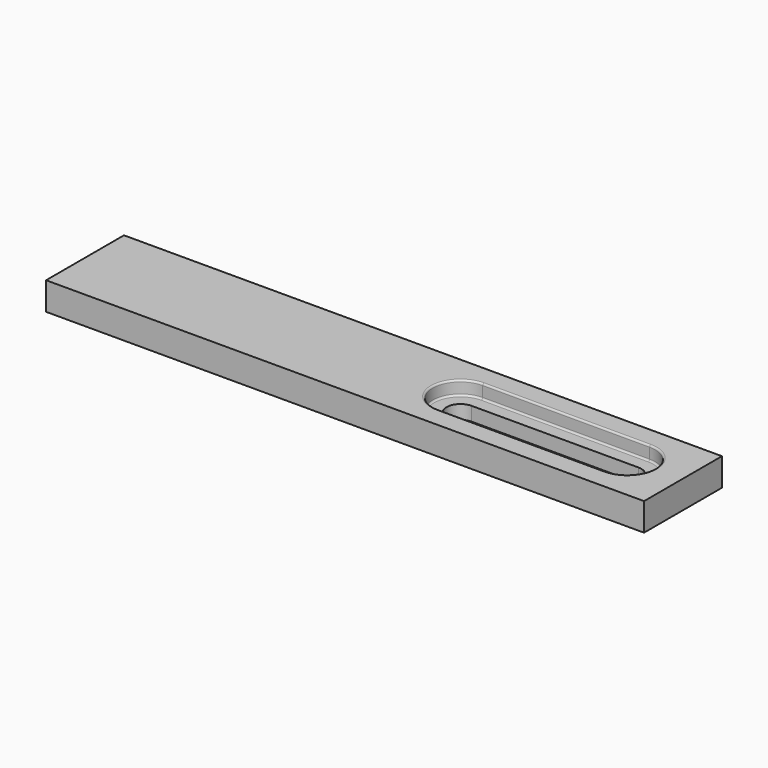
from build123d import *

# Parameters (mm, degrees)
F0_W     = 86
F0_H     = 14
F1_DEPTH = 4
F3_DEPTH = 4
F5_DEPTH = 2
F6_R     = 0.25


with BuildPart() as f1:
    # F0 (on Top) → F1 (new body)
    with BuildSketch(Plane.XY):
        Rectangle(F0_W, F0_H)
    extrude(amount=F1_DEPTH)

    # F2 (on face) → F3 (cut)
    with BuildSketch(Plane.XY.offset(4)):
        with BuildLine():
            ThreePointArc((35, -2), (36.4142139414, -1.4142137697), (37.0000005863, 0))
            ThreePointArc((37.0000005863, 0), (36.4142139414, 1.4142137697), (35, 2))
            Line((35, 2), (35, -2))
        make_face()
        with BuildLine():
            Line((35, -2), (35, 2))
            ThreePointArc((35, 2), (33.0000005863, 0), (35, -2))
        make_face()
        with BuildLine():
            ThreePointArc((35, -2), (33.0000005863, 0), (35, 2))
            Line((35, 2), (11, 2))
            ThreePointArc((11, 2), (12.4142135624, 1.4142135624), (13, 0))
            ThreePointArc((13, 0), (12.4142135624, -1.4142135624), (11, -2))
            Line((11, -2), (35, -2))
        make_face()
        with BuildLine():
            Line((11, -2), (11, 2))
            ThreePointArc((11, 2), (9, 0), (11, -2))
        make_face()
        with BuildLine():
            ThreePointArc((13, 0), (12.4142135624, 1.4142135624), (11, 2))
            Line((11, 2), (11, -2))
            ThreePointArc((11, -2), (12.4142135624, -1.4142135624), (13, 0))
        make_face()
    extrude(amount=-F3_DEPTH, mode=Mode.SUBTRACT)

    # F4 (on face) → F5 (cut)
    with BuildSketch(Plane.XY.offset(4)):
        with BuildLine():
            ThreePointArc((35.0000005863, -4), (37.8284277111, -2.8284271247), (39.0000005863, 0))
            ThreePointArc((39.0000005863, 0), (37.8284277111, 2.8284271247), (35.0000005863, 4))
            Line((35.0000005863, 4), (35.0000005863, -4))
        make_face()
        with BuildLine():
            Line((35.0000005863, -4), (35.0000005863, 4))
            ThreePointArc((35.0000005863, 4), (31.0000005863, 0), (35.0000005863, -4))
        make_face()
        with BuildLine():
            ThreePointArc((35.0000005863, -4), (31.0000005863, 0), (35.0000005863, 4))
            Line((35.0000005863, 4), (11.0000005863, 4))
            ThreePointArc((11.0000005863, 4), (13.828427332, 2.8284269175), (15, 0))
            ThreePointArc((15, 0), (13.828427332, -2.8284269175), (11.0000005863, -4))
            Line((11.0000005863, -4), (35.0000005863, -4))
        make_face()
        with BuildLine():
            Line((11.0000005863, -4), (11.0000005863, 4))
            ThreePointArc((11.0000005863, 4), (7, 0), (11.0000005863, -4))
        make_face()
        with BuildLine():
            ThreePointArc((15, 0), (13.828427332, 2.8284269175), (11.0000005863, 4))
            Line((11.0000005863, 4), (11.0000005863, -4))
            ThreePointArc((11.0000005863, -4), (13.828427332, -2.8284269175), (15, 0))
        make_face()
    extrude(amount=-F5_DEPTH, mode=Mode.SUBTRACT)

    # F6
    f6_edges = [f1.edges().sort_by_distance(p)[0] for p in [
        (23.000001, 4, 2),
        (7, 0, 2),
        (23.000001, -4, 2),
        (39.000001, 0, 2),
        (23.000001, -4, 4),
        (7, 0, 4),
        (23.000001, 4, 4),
        (39.000001, 0, 4),
    ]]
    fillet(f6_edges, radius=F6_R)


solid = f1.part
